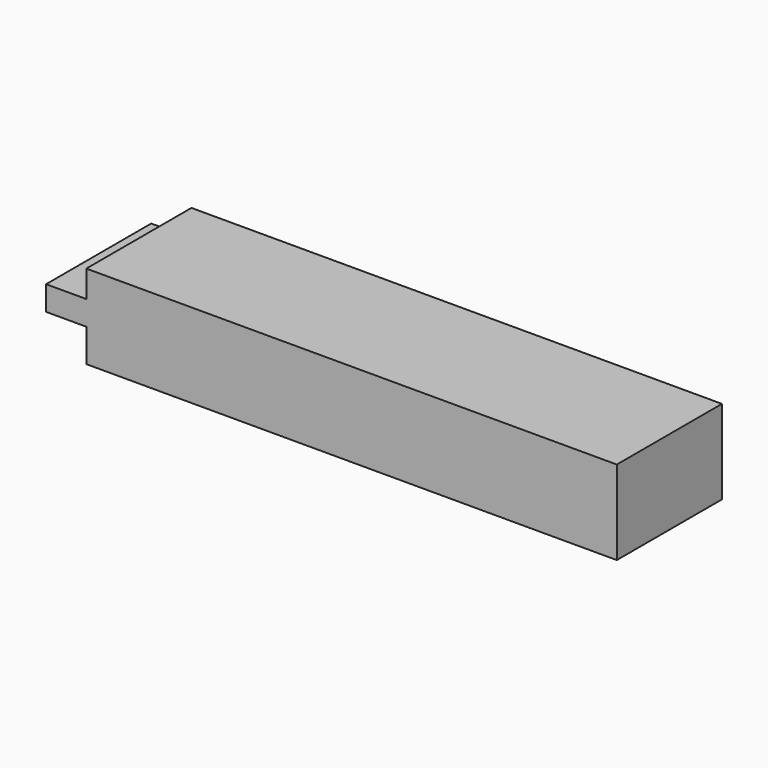
from build123d import *

# Parameters (mm, degrees)
F0_W     = 7.7786445618
F0_H     = 4.714332521
F0_W_2   = 6.3643492758
F1_DEPTH = 25.4


with BuildPart() as f1:
    # F0 (on Front) → F1 (new body)
    with BuildSketch(Plane.XZ):
        with Locations((-42.664706707, 34.9325090647)):
            Rectangle(F0_W, F0_H)
        with Locations((-35.5932097882, 34.9325090647)):
            Rectangle(F0_W_2, F0_H)
        Polygon((-32.4110351503, 32.5753428042), (-38.7753844261, 32.5753428042), (-38.7753844261, 26.2109935284), (63.7613385916, 26.2109935284), (63.7613385916, 42.4754396081), (-38.7753844261, 42.4754396081), (-38.7753844261, 37.2896753252), (-32.4110351503, 37.2896753252), align=None)
    extrude(amount=F1_DEPTH)


solid = f1.part
